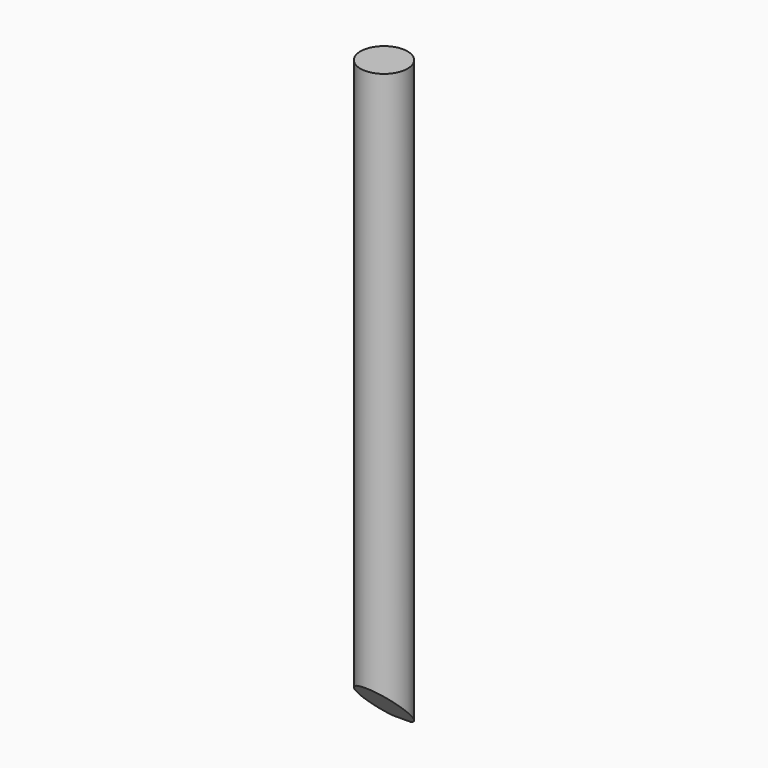
from build123d import *

# Parameters (mm, degrees)
F0_R          = 1
F1_DEPTH      = 25
F3_DEPTH      = 25
F3_DEPTH_BACK = 25


with BuildPart() as f1:
    # F0 (on Top) → F1 (new body)
    with BuildSketch(Plane.XY):
        Circle(F0_R)
    extrude(amount=F1_DEPTH)

    # F2 (on Right) → F3 (cut, two sides)
    with BuildSketch(Plane.YZ) as f3_sk:
        Polygon((-1.3998680515, -1.1082989778), (2.03673096, -1.1082989778), (-1.3998680515, 2.3283000337), align=None)
    extrude(amount=-F3_DEPTH, mode=Mode.SUBTRACT)
    extrude(f3_sk.sketch, amount=F3_DEPTH_BACK, mode=Mode.SUBTRACT)


solid = f1.part
